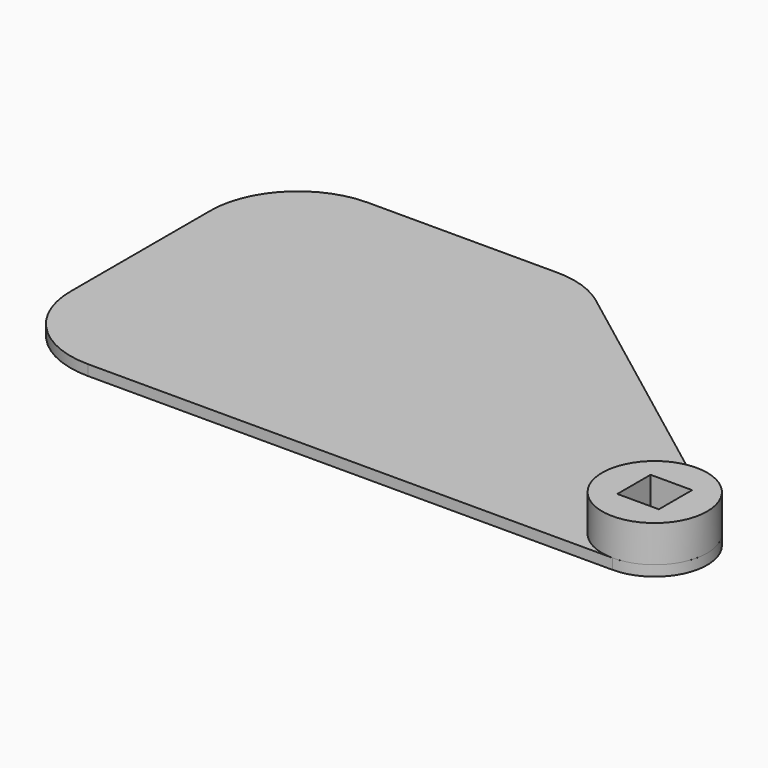
from build123d import *

# Parameters (mm, degrees)
F0_W     = 4.75
F0_H     = 4.75
F1_DEPTH = 1.2
F2_R     = 6
F2_W     = 4.75
F2_H     = 4.75
F3_DEPTH = 4.2
F4_W     = 4.75
F4_H     = 4.75
F4_R     = 1.5
F5_DEPTH = 1.2


with BuildPart() as f1:
    # F0 (on Top) → F1 (new body)
    with BuildSketch(Plane.XY):
        with BuildLine():
            Line((-60, -6), (0, -6))
            ThreePointArc((0, -6), (5.688168, -1.90912), (3.619799, 4.785087))
            Line((3.619799, 4.785087), (-32.323302, 31.975145))
            ThreePointArc((-32.323302, 31.975145), (-35.174433, 33.480281), (-38.3563, 34))
            Line((-38.3563, 34), (-60, 34))
            ThreePointArc((-60, 34), (-67.071068, 31.071068), (-70, 24))
            Line((-70, 24), (-70, 4))
            ThreePointArc((-70, 4), (-67.071068, -3.071068), (-60, -6))
        make_face()
        Rectangle(F0_W, F0_H, mode=Mode.SUBTRACT)
    extrude(amount=F1_DEPTH)

    # F2 (on face) → F3 (join)
    with BuildSketch(Plane.XY.offset(1.2)):
        Circle(F2_R)
        Rectangle(F2_W, F2_H, mode=Mode.SUBTRACT)
    extrude(amount=F3_DEPTH)

    # F4 (on face) → F5 (join)
    with BuildSketch(Plane(origin=(0, 0, 0), x_dir=(1, 0, 0), z_dir=(0, 0, -1))):
        Rectangle(F4_W, F4_H)
        Circle(F4_R, mode=Mode.SUBTRACT)
    extrude(amount=-F5_DEPTH)


solid = f1.part
